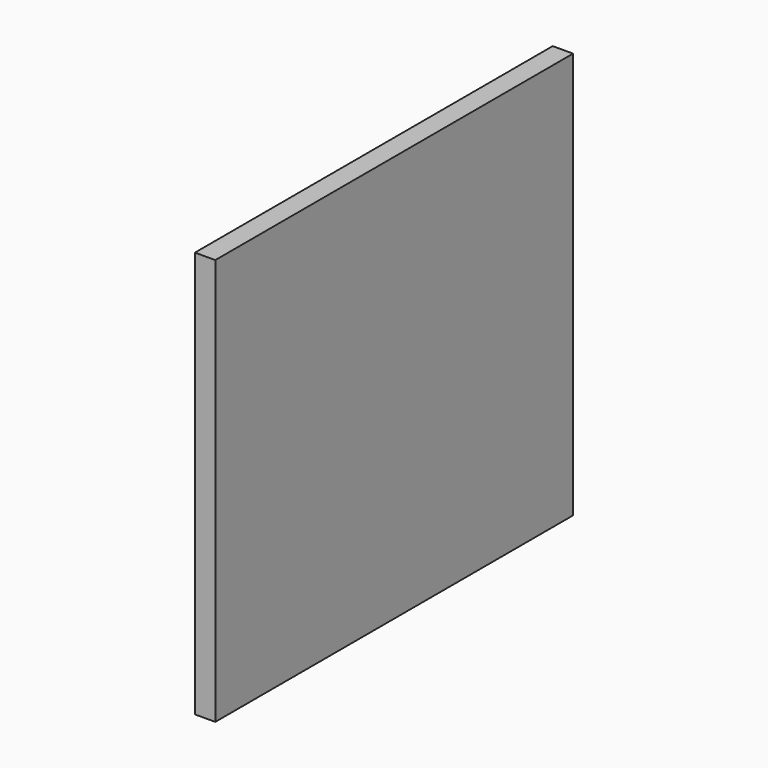
from build123d import *

# Parameters (mm, degrees)
F1_DEPTH  = 0.3
F1_FACE_W = 11
F1_FACE_H = 10
F2_DEPTH  = 0.2


with BuildPart() as f1:
    # F0 (on Right) → F1 (new body)
    with BuildSketch(Plane.YZ):
        Polygon((-34.522, 38.063011), (-39.522, 38.063011), (-39.522, 33.563011), (-39.522, 32.563011), (-39.522, 28.063011), (-34.522, 28.063011), (-33.522, 28.063011), (-28.522, 28.063011), (-28.522, 32.563011), (-28.522, 33.563011), (-28.522, 38.063011), (-33.522, 38.063011), align=None)
    extrude(amount=F1_DEPTH)

    # F1_face (on face) → F2 (join)
    with BuildSketch(Plane(origin=(0.3, -34.022, 33.063011), x_dir=(0, 1, 0), z_dir=(1, 0, 0))):
        Rectangle(F1_FACE_W, F1_FACE_H)
    extrude(amount=F2_DEPTH)


solid = f1.part
